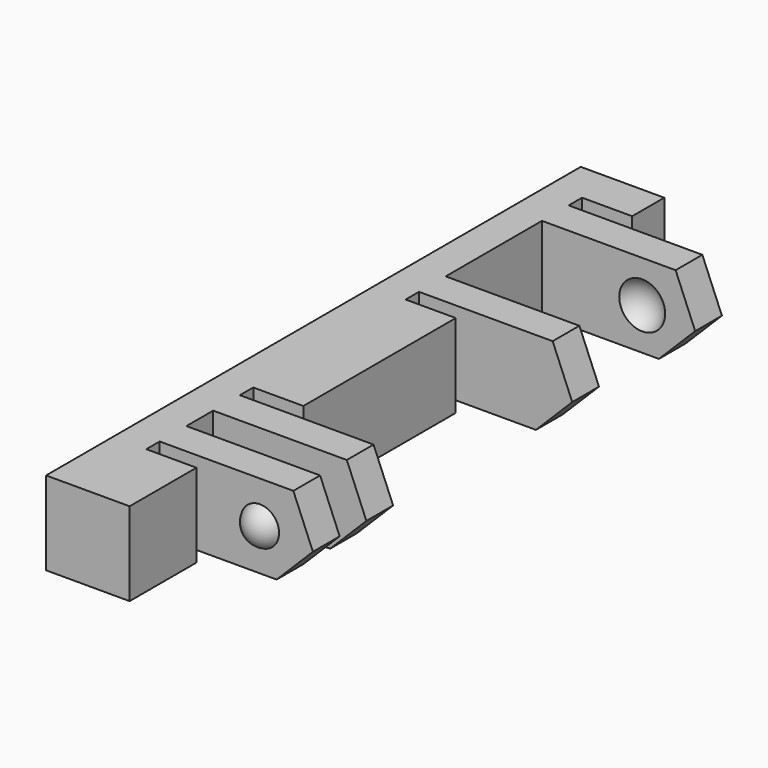
from build123d import *

# Parameters (mm, degrees)
BOX124_W               = 12
BOX124_H               = 44
BOX124_DEPTH           = 10
BOX119_W               = 4
BOX119_H               = 1
BOX119_DEPTH           = 7
BOX127_W               = 4
BOX127_H               = 1
BOX127_DEPTH           = 7
BOX128_W               = 4
BOX128_H               = 2
BOX128_DEPTH           = 7
BOX130_W               = 4
BOX130_H               = 1
BOX130_DEPTH           = 7
BOX122_W               = 4
BOX122_H               = 1
BOX122_DEPTH           = 7
BOX121_W               = 4
BOX121_H               = 7.2
BOX121_DEPTH           = 7
BOX120_W               = 13
BOX120_H               = 40
BOX120_DEPTH           = 10
BOX120_PLACEMENT_ANGLE = 45
BOX123_W               = 10
BOX123_H               = 2
BOX123_DEPTH           = 7
BOX126_W               = 10
BOX126_H               = 2
BOX126_DEPTH           = 7
BOX125_W               = 10
BOX125_H               = 2
BOX125_DEPTH           = 7
BOX129_W               = 10
BOX129_H               = 2
BOX129_DEPTH           = 7
BOX131_W               = 5
BOX131_H               = 40
BOX131_DEPTH           = 7
CHAMFER011_SIZE        = 4
CUT034_PLACEMENT_ANGLE = 180
CUT033_PLACEMENT_ANGLE = 180


with BuildPart() as cube108:
    # Box124 → Box124 (new body)
    with BuildSketch(Plane(origin=(-11, -2, -12), x_dir=(1, 0, 0), z_dir=(0, 0, 1))):
        with Locations((6, 22)):
            Rectangle(BOX124_W, BOX124_H)
    extrude(amount=BOX124_DEPTH)


with BuildPart() as cube103:
    # Box119 → Box119 (new body)
    with BuildSketch(Plane(origin=(-1, 12, 0), x_dir=(1, 0, 0), z_dir=(0, 0, 1))):
        with Locations((2, 0.5)):
            Rectangle(BOX119_W, BOX119_H)
    extrude(amount=BOX119_DEPTH)


with BuildPart() as cube111:
    # Box127 → Box127 (new body)
    with BuildSketch(Plane(origin=(-1, 36.6, 0), x_dir=(1, 0, 0), z_dir=(0, 0, 1))):
        with Locations((2, 0.5)):
            Rectangle(BOX127_W, BOX127_H)
    extrude(amount=BOX127_DEPTH)


with BuildPart() as cube112:
    # Box128 → Box128 (new body)
    with BuildSketch(Plane(origin=(-1, 8, 0), x_dir=(1, 0, 0), z_dir=(0, 0, 1))):
        with Locations((2, 1)):
            Rectangle(BOX128_W, BOX128_H)
    extrude(amount=BOX128_DEPTH)


with BuildPart() as cube114:
    # Box130 → Box130 (new body)
    with BuildSketch(Plane(origin=(-1, 24.4, 0), x_dir=(1, 0, 0), z_dir=(0, 0, 1))):
        with Locations((2, 0.5)):
            Rectangle(BOX130_W, BOX130_H)
    extrude(amount=BOX130_DEPTH)


with BuildPart() as cube106:
    # Box122 → Box122 (new body)
    with BuildSketch(Plane(origin=(-1, 5, 0), x_dir=(1, 0, 0), z_dir=(0, 0, 1))):
        with Locations((2, 0.5)):
            Rectangle(BOX122_W, BOX122_H)
    extrude(amount=BOX122_DEPTH)


with BuildPart() as fusion038:
    # Box121 → Box121 (new body)
    with BuildSketch(Plane(origin=(-1, 27.4, 0), x_dir=(1, 0, 0), z_dir=(0, 0, 1))):
        with Locations((2, 3.6)):
            Rectangle(BOX121_W, BOX121_H)
    extrude(amount=BOX121_DEPTH)

    # Fusion038: union Cube103, Cube111, Cube112, Cube114, Cube106
    add(cube103.part)
    add(cube111.part)
    add(cube112.part)
    add(cube114.part)
    add(cube106.part)


with BuildPart() as sphere044:
    # Sphere044 → Sphere044 (revolve)
    with BuildSketch(Plane(origin=(-3, 28, 2.5), x_dir=(1, 0, 0), z_dir=(0, -1, 0))):
        with BuildLine():
            ThreePointArc((0, -1.5), (1.5, 0), (0, 1.5))
            Line((0, 1.5), (0, -1.5))
        make_face()
    revolve(axis=Axis((-3, 28, 2.5), (0, 0, 1)))


with BuildPart() as fusion040:
    # Sphere046 → Sphere046 (revolve)
    with BuildSketch(Plane(origin=(-3, 34, 2.5), x_dir=(1, 0, 0), z_dir=(0, -1, 0))):
        with BuildLine():
            ThreePointArc((0, -1.5), (1.5, 0), (0, 1.5))
            Line((0, 1.5), (0, -1.5))
        make_face()
    revolve(axis=Axis((-3, 34, 2.5), (0, 0, 1)))

    # Fusion040: union Sphere044
    add(sphere044.part)


with BuildPart() as sphere045:
    # Sphere045 → Sphere045 (revolve)
    with BuildSketch(Plane(origin=(-3, 11.5, 2.5), x_dir=(1, 0, 0), z_dir=(0, -1, 0))):
        with BuildLine():
            ThreePointArc((0, -1.25), (1.25, 0), (0, 1.25))
            Line((0, 1.25), (0, -1.25))
        make_face()
    revolve(axis=Axis((-3, 11.5, 2.5), (0, 0, 1)))


with BuildPart() as cube104:
    # Box120 → Box120 (new body)
    with BuildSketch(Plane.XY):
        with Locations((6.5, 20)):
            Rectangle(BOX120_W, BOX120_H)
    extrude(amount=BOX120_DEPTH)


with BuildPart() as cube104_1:
    # Box120 placement: moved
    add(cube104.part.moved(Location((-10.19, 0, -1.19))).rotate(Axis((-10.19, 0, -1.19), (0, -1, 0)), BOX120_PLACEMENT_ANGLE))


with BuildPart() as cube107:
    # Box123 → Box123 (new body)
    with BuildSketch(Plane(origin=(-10, 6, 0), x_dir=(1, 0, 0), z_dir=(0, 0, 1))):
        with Locations((5, 1)):
            Rectangle(BOX123_W, BOX123_H)
    extrude(amount=BOX123_DEPTH)


with BuildPart() as cube110:
    # Box126 → Box126 (new body)
    with BuildSketch(Plane(origin=(-10, 10, 0), x_dir=(1, 0, 0), z_dir=(0, 0, 1))):
        with Locations((5, 1)):
            Rectangle(BOX126_W, BOX126_H)
    extrude(amount=BOX126_DEPTH)


with BuildPart() as cube109:
    # Box125 → Box125 (new body)
    with BuildSketch(Plane(origin=(-10, 25.4, 0), x_dir=(1, 0, 0), z_dir=(0, 0, 1))):
        with Locations((5, 1)):
            Rectangle(BOX125_W, BOX125_H)
    extrude(amount=BOX125_DEPTH)


with BuildPart() as cube113:
    # Box129 → Box129 (new body)
    with BuildSketch(Plane(origin=(-10, 34.6, 0), x_dir=(1, 0, 0), z_dir=(0, 0, 1))):
        with Locations((5, 1)):
            Rectangle(BOX129_W, BOX129_H)
    extrude(amount=BOX129_DEPTH)


with BuildPart() as cut035:
    # Box131 → Box131 (new body)
    with BuildSketch(Plane.XY):
        with Locations((2.5, 20)):
            Rectangle(BOX131_W, BOX131_H)
    extrude(amount=BOX131_DEPTH)

    # Fusion041: union Cube107, Cube110, Cube109, Cube113
    add(cube107.part)
    add(cube110.part)
    add(cube109.part)
    add(cube113.part)

    # Cut035: cut Cube104
    add(cube104_1.part, mode=Mode.SUBTRACT)


with BuildPart() as cut033:
    # Sphere043 → Sphere043 (revolve)
    with BuildSketch(Plane(origin=(-3, 6.5, 2.5), x_dir=(1, 0, 0), z_dir=(0, -1, 0))):
        with BuildLine():
            ThreePointArc((0, -1.25), (1.25, 0), (0, 1.25))
            Line((0, 1.25), (0, -1.25))
        make_face()
    revolve(axis=Axis((-3, 6.5, 2.5), (0, 0, 1)))

    # Fusion039: union Sphere045, Cut035
    add(sphere045.part)
    add(cut035.part)

    # Cut036: cut Fusion040
    add(fusion040.part, mode=Mode.SUBTRACT)

    # Chamfer011
    chamfer011_edges = [cut033.edges().sort_by_distance(p)[0] for p in [
        (-9, 7, 0),
        (-9, 11, 0),
        (-9, 35.6, 0),
        (-9, 26.4, 0),
    ]]
    chamfer(chamfer011_edges, length=CHAMFER011_SIZE)

    # Cut034: cut Fusion038
    add(fusion038.part, mode=Mode.SUBTRACT)


with BuildPart() as cut033_1:
    # Cut034 placement: moved
    add(cut033.part.moved(Location((-5, 40, 3))).rotate(Axis((-5, 40, 3), (1, 0, 0)), CUT034_PLACEMENT_ANGLE))

    # Cut033: cut Cube108
    add(cube108.part, mode=Mode.SUBTRACT)


with BuildPart() as cut033_2:
    # Cut033 placement: moved
    add(cut033_1.part.moved(Location((40, 40, 0))).rotate(Axis((40, 40, 0), (0, 0, 1)), CUT033_PLACEMENT_ANGLE))


solid = cut033_2.part
